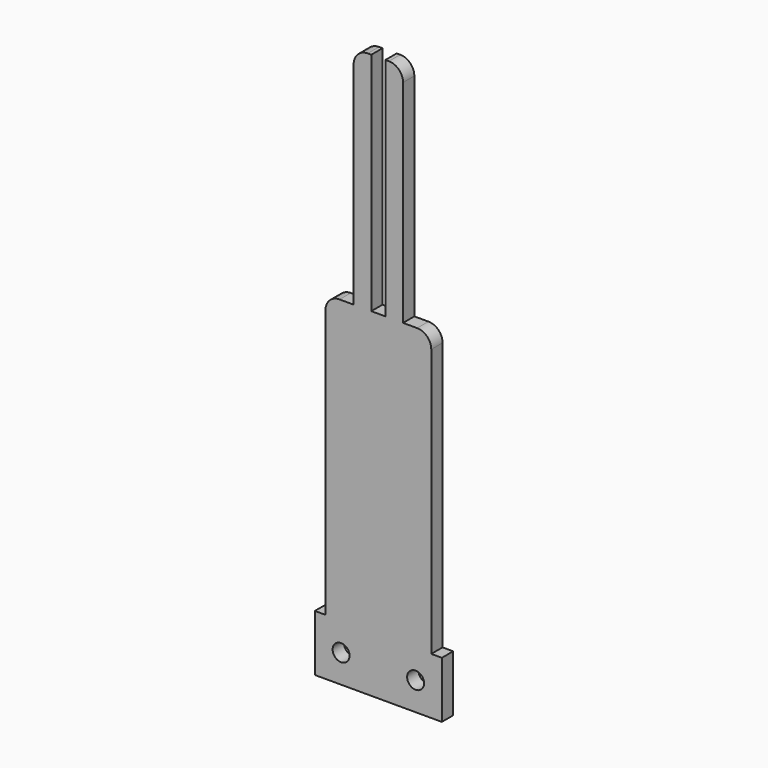
from build123d import *

# Parameters (mm, degrees)
F0_R     = 3.81
F1_DEPTH = 3.175


with BuildPart() as f1:
    # F0 (on Front) → F1 (new body, symmetric)
    with BuildSketch(Plane.XZ):
        with BuildLine():
            Line((28.575, -12.7), (28.575, 12.7))
            Line((28.575, 12.7), (23.8125, 12.7))
            Line((23.8125, 12.7), (23.8125, 133.35))
            ThreePointArc((23.8125, 133.35), (21.952628, 137.840128), (17.4625, 139.7))
            Line((17.4625, 139.7), (11.1125, 139.7))
            Line((11.1125, 139.7), (11.1125, 234.95))
            ThreePointArc((11.1125, 234.95), (9.252628, 239.440128), (4.7625, 241.3))
            Line((4.7625, 241.3), (3.172577, 241.3))
            Line((3.172577, 241.3), (3.172577, 139.7))
            Line((3.172577, 139.7), (-3.177423, 139.7))
            Line((-3.177423, 139.7), (-3.177423, 241.3))
            Line((-3.177423, 241.3), (-4.7625, 241.3))
            ThreePointArc((-4.7625, 241.3), (-9.252628, 239.440128), (-11.1125, 234.95))
            Line((-11.1125, 234.95), (-11.1125, 139.7))
            Line((-11.1125, 139.7), (-17.4625, 139.7))
            ThreePointArc((-17.4625, 139.7), (-21.952628, 137.840128), (-23.8125, 133.35))
            Line((-23.8125, 133.35), (-23.8125, 12.7))
            Line((-23.8125, 12.7), (-28.575, 12.7))
            Line((-28.575, 12.7), (-28.575, -12.7))
            Line((-28.575, -12.7), (-3.175, -12.7))
            Line((-3.175, -12.7), (0, -12.7))
            Line((0, -12.7), (28.575, -12.7))
        make_face()
        with Locations((-16.764, 0)):
            Circle(F0_R, mode=Mode.SUBTRACT)
        with Locations((16.764, 0)):
            Circle(F0_R, mode=Mode.SUBTRACT)
    extrude(amount=F1_DEPTH, both=True)


solid = f1.part
